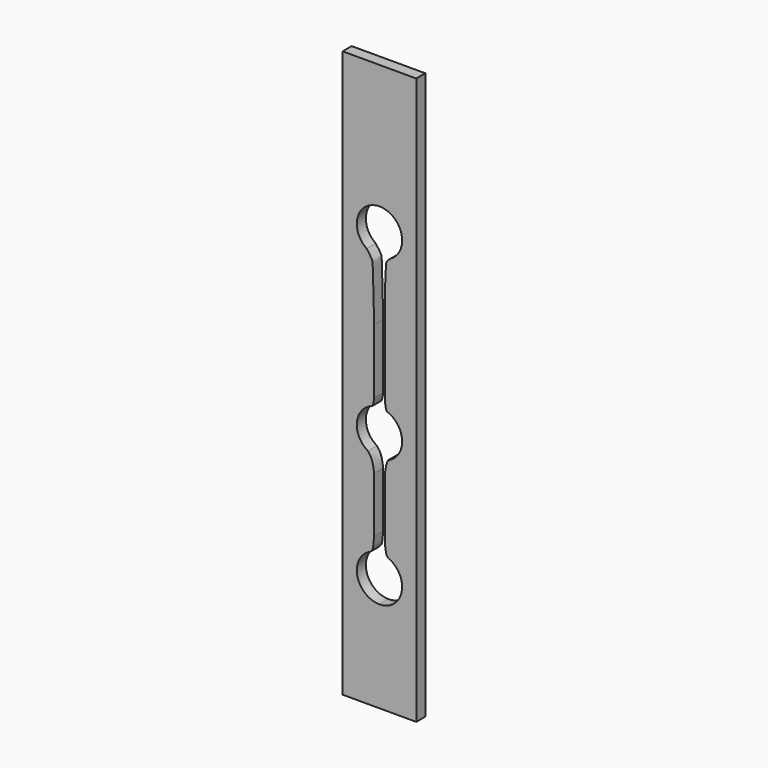
from build123d import *

# Parameters (mm, degrees)
F1_DEPTH = 1


with BuildPart() as f1:
    # F0 (on Front) → F1 (new body)
    with BuildSketch(Plane.XZ):
        with BuildLine():
            Line((6.9652427249, 38.8462082677), (3.7152427249, 38.8462082677))
            Line((3.7152427249, 38.8462082677), (3.7152427249, 27.8515086025))
            ThreePointArc((3.7152427249, 27.8515086025), (5.1294562872, 27.2657221649), (5.7152427249, 25.8515086025))
            ThreePointArc((5.7152427249, 25.8515086025), (5.4512631212, 24.8584158659), (4.7290095414, 24.1274793563))
            add(Edge.make_bspline(
                [(4.7290095414, 24.1274793563), (4.6275814273, 24.0540127102), (4.4534828395, 23.9289265376), (4.3408488044, 23.740002592), (4.2600879604, 23.5865160499), (4.1892384813, 20.9718360692), (4.1867544714, 20.9396667778)],
                knots=[0, 0, 0, 0, 0.181913127, 0.311422295, 0.4704236336, 0.9640158841, 0.9640158841, 0.9640158841, 0.9640158841], degree=3))
            Line((4.1867544714, 20.9396667778), (4.1867544714, 12.9285128787))
            add(Edge.make_bspline(
                [(4.3445135127, 12.1284830822), (4.3206430175, 12.1963615575), (4.2585512669, 12.3676925683), (4.2141467595, 12.716496961), (4.1867544714, 12.9285128787)],
                knots=[0, 0, 0, 0, 0.391917688, 1, 1, 1, 1], degree=3))
            ThreePointArc((4.3445135127, 12.1284830822), (5.3367453576, 11.4008393265), (5.7152427249, 10.2300578728))
            ThreePointArc((5.7152427249, 10.2300578728), (5.3801968888, 9.1219389118), (4.487315093, 8.3850905944))
            add(Edge.make_bspline(
                [(4.487315093, 8.3850905944), (4.43193928, 8.2877334657), (4.3015903456, 8.0631310006), (4.1956594664, 7.2533478123), (4.1867544714, 7.2411531582)],
                knots=[0, 0, 0, 0, 0.3744364892, 0.8713347964, 0.8713347964, 0.8713347964, 0.8713347964], degree=3))
            Line((4.1867544714, 7.2411531582), (4.1867544714, 1.9279832486))
            add(Edge.make_bspline(
                [(4.4415181477, 0.7892925805), (4.3981735735, 0.8543018415), (4.2735271616, 1.0374486552), (4.2211849783, 1.5777627439), (4.1867544714, 1.9279832486)],
                knots=[0, 0, 0, 0, 0.351412562, 1, 1, 1, 1], degree=3))
            ThreePointArc((4.4415181477, 0.7892925805), (5.366386396, 0.0544156939), (5.7152427249, -1.0741783772))
            ThreePointArc((5.7152427249, -1.0741783772), (5.1294562872, -2.4883919395), (3.7152427249, -3.0741783772))
            Line((3.7152427249, -3.0741783772), (3.7152427249, -11.1537917323))
            Line((3.7152427249, -11.1537917323), (6.9652427249, -11.1537917323))
            Line((6.9652427249, -11.1537917323), (6.9652427249, 38.8462082677))
        make_face()
        with BuildLine():
            Line((3.7152427249, 38.8462082677), (0.4652427249, 38.8462082677))
            Line((0.4652427249, 38.8462082677), (0.4652427249, -11.1537917323))
            Line((0.4652427249, -11.1537917323), (3.7152427249, -11.1537917323))
            Line((3.7152427249, -11.1537917323), (3.7152427249, -3.0741783772))
            ThreePointArc((3.7152427249, -3.0741783772), (1.7567068491, -1.4793169008), (2.9217643917, 0.7616843995))
            add(Edge.make_bspline(
                [(2.9217643917, 0.7616843995), (2.9955967273, 0.8476569647), (3.1508691278, 1.0251115313), (3.167451117, 1.3534791692), (3.2398210206, 1.9935589713), (3.2437309783, 2.0598154515)],
                knots=[0, 0, 0, 0, 0.2663982123, 0.5557276571, 0.939692774, 0.939692774, 0.939692774, 0.939692774], degree=3))
            Line((3.2437309783, 2.0598154515), (3.2437309783, 2.076294506))
            Line((3.2437309783, 2.076294506), (3.2437309783, 6.9700689055))
            add(Edge.make_bspline(
                [(2.6882127608, 8.5138966179), (2.8011224892, 8.3700023623), (3.0325699865, 8.0750413717), (3.1715890881, 7.4708940219), (3.2204332845, 7.1318067002), (3.2437309783, 6.9700689055)],
                knots=[0, 0, 0, 0, 0.3325269413, 0.6816288502, 1, 1, 1, 1], degree=3))
            ThreePointArc((2.6882127608, 8.5138966179), (1.726422686, 10.4412328079), (3.0714972614, 12.1236237624))
            add(Edge.make_bspline(
                [(3.0714972614, 12.1236237624), (3.103239621, 12.1784670425), (3.1810934977, 12.3097082252), (3.240827298, 12.7795572617), (3.2437309783, 12.8223551437)],
                knots=[0, 0, 0, 0, 0.382674986, 0.9264954646, 0.9264954646, 0.9264954646, 0.9264954646], degree=3))
            Line((3.2437309783, 12.8223551437), (3.2437309783, 12.8312017769))
            Line((3.2437309783, 12.8312017769), (3.2437309783, 18.5076836497))
            add(Edge.make_bspline(
                [(2.5792201528, 24.2054670733), (2.6882127608, 24.0671992935), (2.8899452233, 23.8124403077), (3.102442087, 23.4168815454), (3.1406473815, 23.221008711), (3.2302419226, 18.7396546183), (3.2437309783, 18.5076836497)],
                knots=[0, 0, 0, 0, 0.1492513665, 0.2755733309, 0.3988645385, 0.8416932228, 0.8416932228, 0.8416932228, 0.8416932228], degree=3))
            ThreePointArc((2.5792201528, 24.2054670733), (1.8057816676, 26.446452693), (3.7152427249, 27.8515086025))
            Line((3.7152427249, 27.8515086025), (3.7152427249, 38.8462082677))
        make_face()
    extrude(amount=F1_DEPTH)


solid = f1.part
